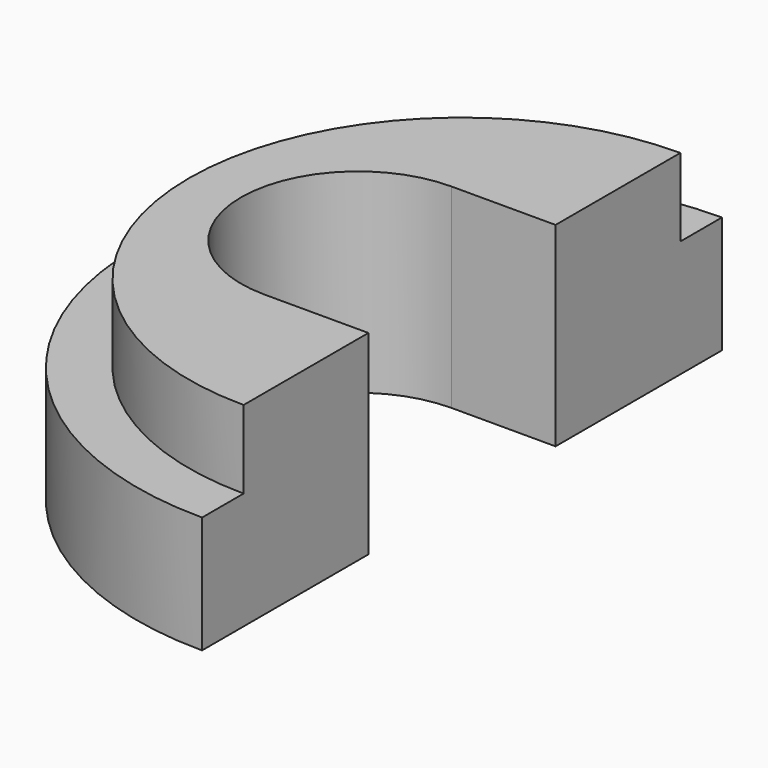
from build123d import *

# Parameters (mm, degrees)
F1_DEPTH = 7.5
F2_DEPTH = 4.5


with BuildPart() as f1:
    # F0 (on Top) → F1 (new body)
    with BuildSketch(Plane.XY):
        with BuildLine():
            Line((0, 4.5), (0, 10.5))
            ThreePointArc((0, 10.5), (-10.5, 0), (0, -10.5))
            Line((0, -10.5), (0, -4.5))
            Line((0, -4.5), (-4, -4.5))
            ThreePointArc((-4, -4.5), (-8.5, 0), (-4, 4.5))
            Line((-4, 4.5), (0, 4.5))
        make_face()
    extrude(amount=F1_DEPTH)

    # F0 (on Top) → F2 (join)
    with BuildSketch(Plane.XY):
        with BuildLine():
            ThreePointArc((0, -10.5), (-10.5, 0), (0, 10.5))
            Line((0, 10.5), (0, 12.5))
            ThreePointArc((0, 12.5), (-12.5, 0), (0, -12.5))
            Line((0, -12.5), (0, -10.5))
        make_face()
    extrude(amount=F2_DEPTH)


solid = f1.part
